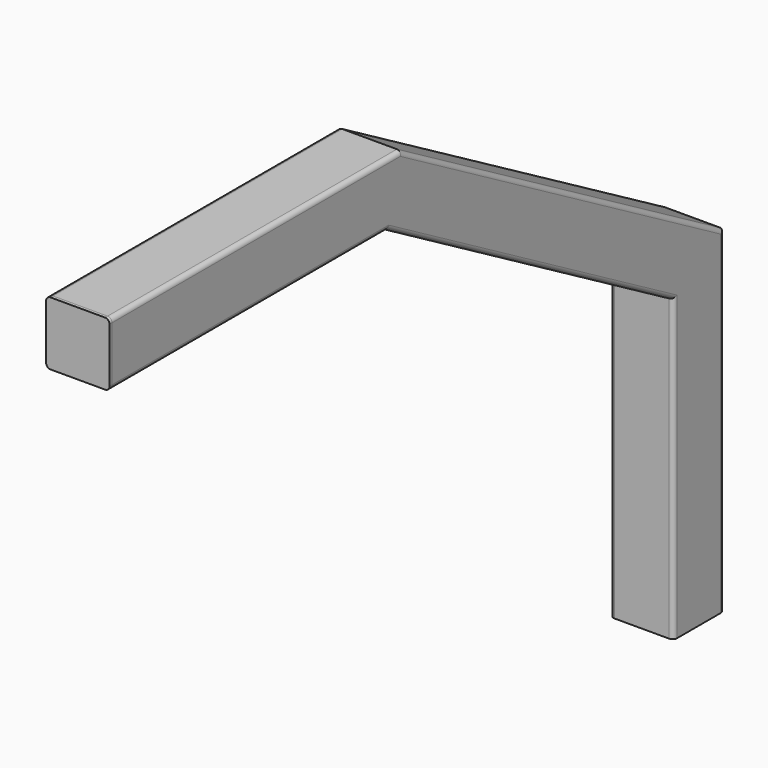
from build123d import *

# Parameters (mm, degrees)
F4_DEPTH = 5


with BuildPart() as f2:
    # F2: sweep along a path in F1
    with BuildLine(Plane.YZ) as f2_path:
        Line((50, 0), (50, 530))
        Line((50, 530), (-586.5286717816, 897.5))
        Line((-586.5286717816, 897.5), (-1156.5286717816, 897.5))
    # F0 (on Top) → F2 (sweep)
    with BuildSketch(Plane.XY):
        with BuildLine():
            ThreePointArc((50, 43), (47.9497474683, 47.9497474683), (43, 50))
            Line((43, 50), (-43, 50))
            ThreePointArc((-43, 50), (-47.9497474683, 47.9497474683), (-50, 43))
            Line((-50, 43), (-50, -43))
            ThreePointArc((-50, -43), (-47.9497474683, -47.9497474683), (-43, -50))
            Line((-43, -50), (43, -50))
            ThreePointArc((43, -50), (47.9497474683, -47.9497474683), (50, -43))
            Line((50, -43), (50, 43))
        make_face()
        with BuildLine():
            ThreePointArc((45, -43), (44.4142135624, -44.4142135624), (43, -45))
            Line((43, -45), (-43, -45))
            ThreePointArc((-43, -45), (-44.4142135624, -44.4142135624), (-45, -43))
            Line((-45, -43), (-45, 43))
            ThreePointArc((-45, 43), (-44.4142135624, 44.4142135624), (-43, 45))
            Line((-43, 45), (43, 45))
            ThreePointArc((43, 45), (44.4142135624, 44.4142135624), (45, 43))
            Line((45, 43), (45, -43))
        make_face(mode=Mode.SUBTRACT)
    sweep(path=f2_path.line, transition=Transition.RIGHT)


with BuildPart() as f4:
    # F3 (on face) → F4 (new body)
    with BuildSketch(Plane.XZ.offset(1156.5286717816)):
        with BuildLine():
            ThreePointArc((50, 890.5), (47.9497474683, 895.4497474683), (43, 897.5))
            Line((43, 897.5), (-43, 897.5))
            ThreePointArc((-43, 897.5), (-47.9497474683, 895.4497474683), (-50, 890.5))
            Line((-50, 890.5), (-50, 804.5))
            ThreePointArc((-50, 804.5), (-47.9497474683, 799.5502525317), (-43, 797.5))
            Line((-43, 797.5), (43, 797.5))
            ThreePointArc((43, 797.5), (47.9497474683, 799.5502525317), (50, 804.5))
            Line((50, 804.5), (50, 890.5))
        make_face()
    extrude(amount=F4_DEPTH)


solid = Compound([f2.part, f4.part])
